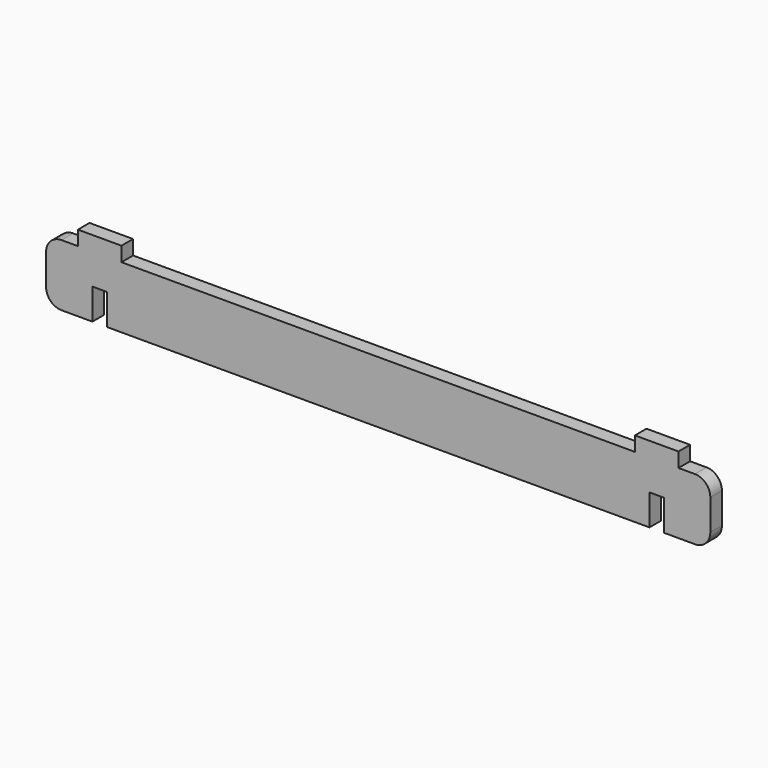
from build123d import *

# Parameters (mm, degrees)
F2_DEPTH = 4.7


with BuildPart() as f2:
    # F1 (on Front) → F2 (new body)
    with BuildSketch(Plane.XZ):
        with BuildLine():
            Line((-97.2, 20), (-102.5, 20))
            ThreePointArc((-102.5, 20), (-106.0355339059, 18.5355339059), (-107.5, 15))
            Line((-107.5, 15), (-107.5, 5))
            ThreePointArc((-107.5, 5), (-106.0355339059, 1.4644660941), (-102.5, 0))
            Line((-102.5, 0), (-92.5, 0))
            Line((-92.5, 0), (-92.5, 10))
            Line((-92.5, 10), (-87.8, 10))
            Line((-87.8, 10), (-87.8, 0))
            Line((-87.8, 0), (87.8, 0))
            Line((87.8, 0), (87.8, 10))
            Line((87.8, 10), (92.5, 10))
            Line((92.5, 10), (92.5, 0))
            Line((92.5, 0), (102.5, 0))
            ThreePointArc((102.5, 0), (106.0355339059, 1.4644660941), (107.5, 5))
            Line((107.5, 5), (107.5, 15))
            ThreePointArc((107.5, 15), (106.0355339059, 18.5355339059), (102.5, 20))
            Line((102.5, 20), (97.2, 20))
            Line((97.2, 20), (97.2, 24.7))
            Line((97.2, 24.7), (92.5, 24.7))
            Line((92.5, 24.7), (87.8, 24.7))
            Line((87.8, 24.7), (83.1, 24.7))
            Line((83.1, 24.7), (83.1, 20))
            Line((83.1, 20), (-83.1, 20))
            Line((-83.1, 20), (-83.1, 24.7))
            Line((-83.1, 24.7), (-87.8, 24.7))
            Line((-87.8, 24.7), (-92.5, 24.7))
            Line((-92.5, 24.7), (-97.2, 24.7))
            Line((-97.2, 24.7), (-97.2, 20))
        make_face()
    extrude(amount=F2_DEPTH)


solid = f2.part
